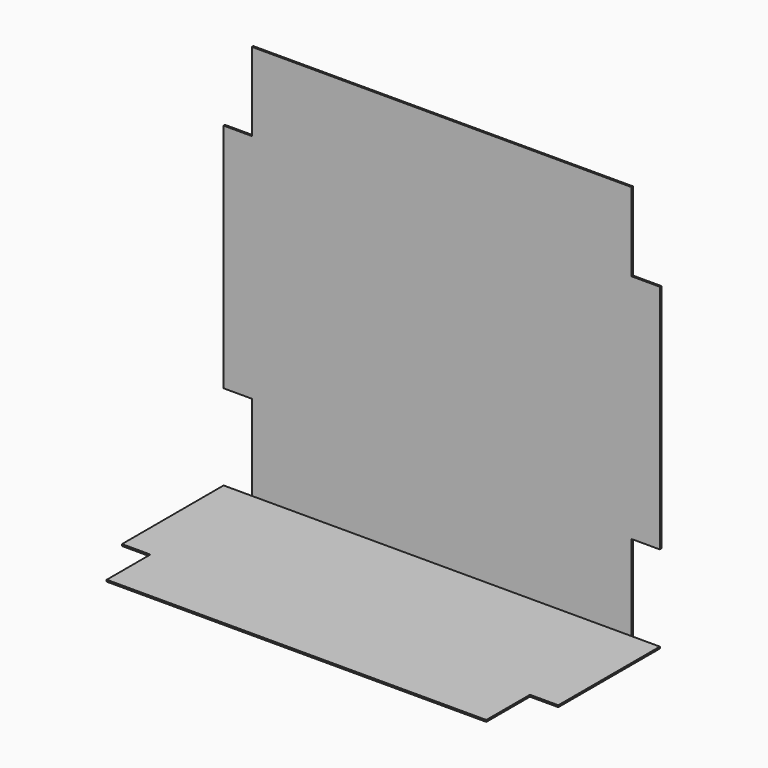
from build123d import *

# Parameters (mm, degrees)
F0_W     = 266.7
F0_H     = 577.85
F1_DEPTH = 317.5
F2_T     = -2.54
F3_W     = 41.275
F3_H     = 114.3
F3_H_2   = 127
F4_DEPTH = 2.54
F5_W     = 41.275
F5_H     = 79.375
F6_DEPTH = 2.541


with BuildPart() as f1:
    # F0 (on Right) → F1 (new body, symmetric)
    with BuildSketch(Plane.YZ):
        Rectangle(F0_W, F0_H)
    extrude(amount=F1_DEPTH, both=True)

    # F2
    f2_openings = [f1.faces().sort_by_distance(p)[0] for p in [
        (0, -133.35, 0),
        (0, 0, 288.925),
        (317.5, 0, 0),
        (-317.5, 0, 0),
    ]]
    offset(amount=F2_T, openings=f2_openings)

    # F3 (on face) → F4 (cut, through all)
    with BuildSketch(Plane(origin=(0, 133.35, 0), x_dir=(-1, 0, 0), z_dir=(0, 1, 0))):
        with Locations((-296.8625, 231.775)):
            Rectangle(F3_W, F3_H)
        with Locations((296.8625, 231.775)):
            Rectangle(F3_W, F3_H)
        with Locations((-296.8625, -225.425)):
            Rectangle(F3_W, F3_H_2)
        with Locations((296.8625, -225.425)):
            Rectangle(F3_W, F3_H_2)
    extrude(amount=-F4_DEPTH, mode=Mode.SUBTRACT)

    # F5 (on face) → F6 (cut, through all)
    with BuildSketch(Plane.XY.offset(-286.385)):
        with Locations((-296.8625, -93.6625)):
            Rectangle(F5_W, F5_H)
        with Locations((296.8625, -93.6625)):
            Rectangle(F5_W, F5_H)
    extrude(amount=-F6_DEPTH, mode=Mode.SUBTRACT)


solid = f1.part
